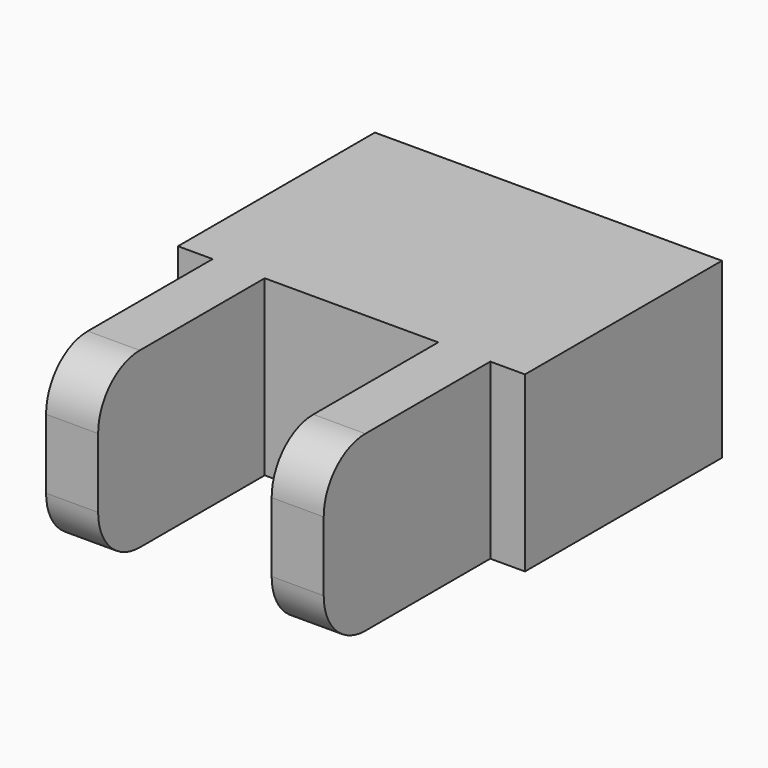
from build123d import *

# Parameters (mm, degrees)
F1_DEPTH = 10
F2_R     = 3


with BuildPart() as f1:
    # F0 (on Top) → F1 (new body)
    with BuildSketch(Plane.XY):
        Polygon((-5, 0), (0, 0), (5, 0), (5, -12), (8, -12), (8, 0), (10, 0), (10, 14.186766), (0, 14.186766), (-10, 14.186766), (-10, 0), (-8, 0), (-8, -12), (-5, -12), align=None)
    extrude(amount=F1_DEPTH)

    # F2
    f2_edges = [f1.edges().sort_by_distance(p)[0] for p in [
        (6.5, -12, 0),
        (6.5, -12, 10),
        (-6.5, -12, 0),
        (-6.5, -12, 10),
    ]]
    fillet(f2_edges, radius=F2_R)


solid = f1.part
